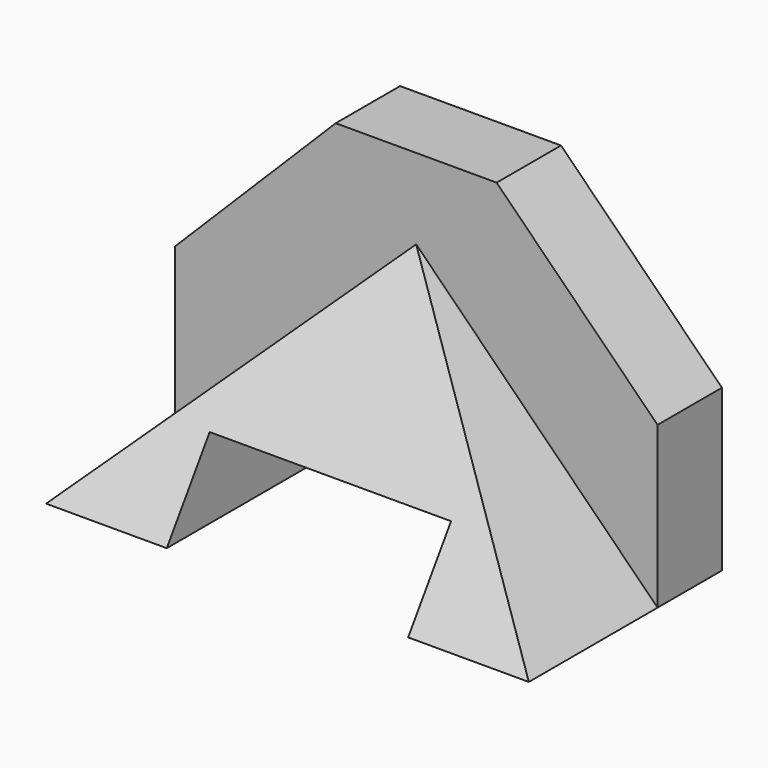
from build123d import *

# Parameters (mm, degrees)
F1_DEPTH = 12.7
F2_DEPTH = 38.1
F4_DEPTH = 76.2


with BuildPart() as f1:
    # F0 (on Front) → F1 (new body)
    with BuildSketch(Plane.XZ):
        Polygon((0, 25.4), (0, 0), (38.1, 38.1), (76.2, 0), (76.2, 25.4), (50.8, 50.8), (25.4, 50.8), align=None)
    extrude(amount=F1_DEPTH)

    # F0 (on Front) → F2 (join)
    with BuildSketch(Plane.XZ):
        Polygon((38.1, 38.1), (0, 0), (19.05, 0), (19.05, 12.7), (57.15, 12.7), (57.15, 0), (76.2, 0), align=None)
    extrude(amount=F2_DEPTH)

    # F3 (on Right) → F4 (cut)
    with BuildSketch(Plane.YZ):
        Polygon((-12.7, 38.1), (-38.1, 38.1), (-38.1, 0), align=None)
    extrude(amount=F4_DEPTH, mode=Mode.SUBTRACT)


solid = f1.part
